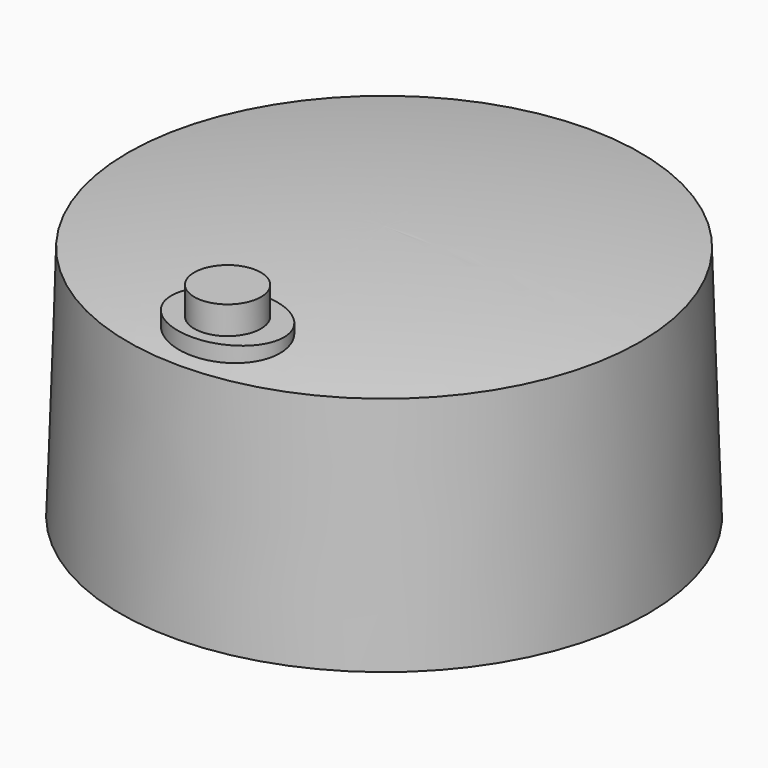
from build123d import *

# Parameters (mm, degrees)
F0_R      = 28.335
F2_R      = 27.5
F8_DEPTH  = 2
F9_R      = 3.575
F10_DEPTH = 3


with BuildPart() as f3:
    # F0 (on Top) → F3 section 0
    with BuildSketch(Plane.XY):
        Circle(F0_R)
    # F2 (on offset) → F3 section 1
    with BuildSketch(Plane.XY.offset(25.4)):
        Circle(F2_R)
    loft()

    # F4 (on Front) → F5 (revolve)
    with BuildSketch(Plane.XZ):
        with BuildLine():
            Line((0, 25.4), (27.5, 25.4))
            ThreePointArc((27.5, 25.4), (13.786316, 26.899341), (0, 27.4))
            Line((0, 27.4), (0, 25.4))
        make_face()
    revolve(axis=Axis((0, 0, 26.4), (0, 0, -1)))

    # F6 (on offset) → F8 (join, through all)
    with BuildSketch(Plane.XY.offset(25.4)):
        with BuildLine():
            add(Edge.make_bspline(
                [(6.05, -21), (6.05, -12.686156), (-3.025, -16.843078), (-12.1, -21), (-3.025, -25.156922), (6.05, -29.313844), (6.05, -21)],
                knots=[0, 0, 0, 2.094395, 2.094395, 4.18879, 4.18879, 6.283185, 6.283185, 6.283185], degree=2, weights=[1, 0.5, 1, 0.5, 1, 0.5, 1]))
        make_face()
    extrude(amount=F8_DEPTH)

    # F9 (on face) → F10 (join)
    with BuildSketch(Plane.XY.offset(27.4)):
        with Locations((0, -21)):
            Circle(F9_R)
    extrude(amount=F10_DEPTH)


solid = f3.part
